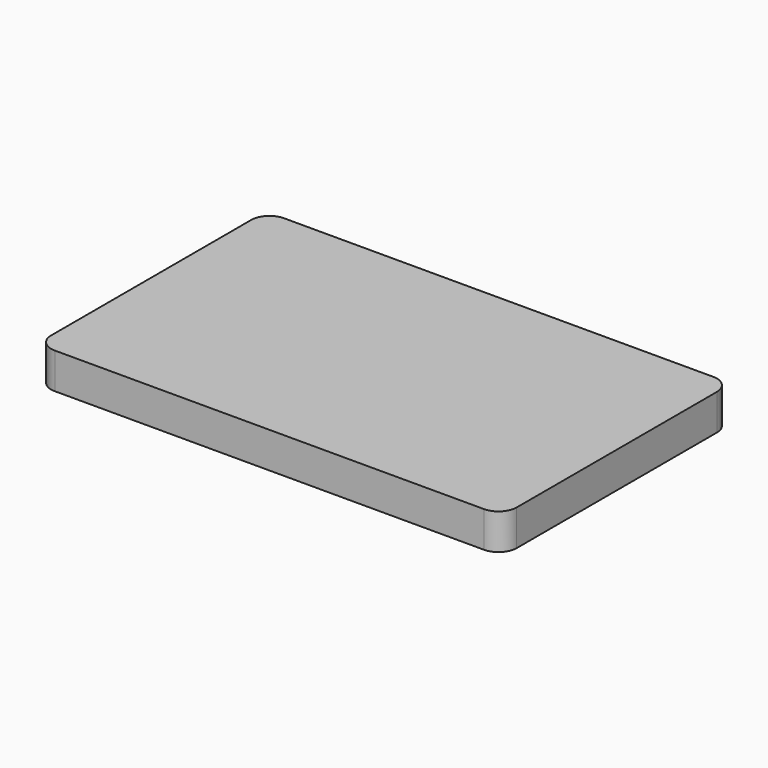
from build123d import *

# Parameters (mm, degrees)
F0_W     = 130
F0_H     = 80
F1_DEPTH = 10
F2_R     = 5.08


with BuildPart() as f1:
    # F0 (on Top) → F1 (new body)
    with BuildSketch(Plane.XY):
        with Locations((-65, 40)):
            Rectangle(F0_W, F0_H)
    extrude(amount=-F1_DEPTH)

    # F2
    f2_edges = [f1.edges().sort_by_distance(p)[0] for p in [
        (-130, 80, -5),
        (0, 80, -5),
        (0, 0, -5),
        (-130, 0, -5),
    ]]
    fillet(f2_edges, radius=F2_R)


solid = f1.part
